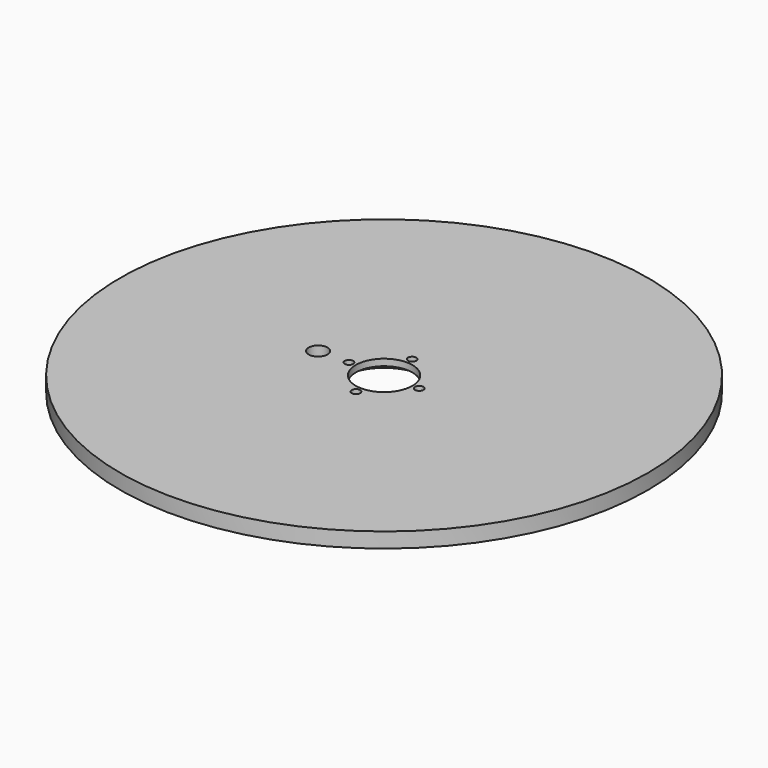
from build123d import *

# Parameters (mm, degrees)
F0_R     = 280
F1_DEPTH = 16
F2_R     = 30
F2_R_2   = 10
F2_R_3   = 4.5
F3_DEPTH = 25
F4_R     = 44.25
F5_DEPTH = 9


with BuildPart() as f1:
    # F0 (on Top) → F1 (new body)
    with BuildSketch(Plane.XY):
        Circle(F0_R)
    extrude(amount=F1_DEPTH)

    # F2 (on face) → F3 (cut)
    with BuildSketch(Plane.XY.offset(16)):
        Circle(F2_R)
        with Locations((-70, 0)):
            Circle(F2_R_2)
        with Locations((-37.25, 0)):
            Circle(F2_R_3)
        with Locations((0, 37.25)):
            Circle(F2_R_3)
        with Locations((37.25, 0)):
            Circle(F2_R_3)
        with Locations((0, -37.25)):
            Circle(F2_R_3)
    extrude(amount=-F3_DEPTH, mode=Mode.SUBTRACT)

    # F4 (on face) → F5 (cut)
    with BuildSketch(Plane(origin=(0, 0, 0), x_dir=(1, 0, 0), z_dir=(0, 0, -1))):
        Circle(F4_R)
    extrude(amount=-F5_DEPTH, mode=Mode.SUBTRACT)


solid = f1.part
